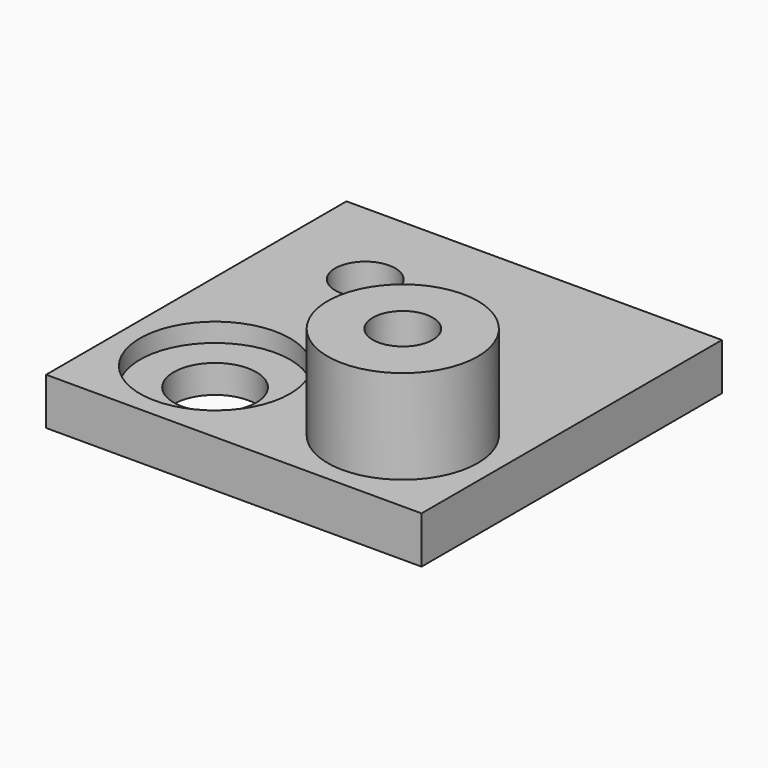
from build123d import *

# Parameters (mm, degrees)
F0_W     = 12.7
F0_H     = 12.7
F1_DEPTH = 1.5875
F2_R     = 1.016
F2_R_2   = 1.397
F3_DEPTH = 6.35
F2_R_3   = 2.54
F4_DEPTH = 3.175
F5_DEPTH = 0.635


with BuildPart() as f1:
    # F0 (on Top) → F1 (new body)
    with BuildSketch(Plane.XY):
        Rectangle(F0_W, F0_H)
    extrude(amount=F1_DEPTH)

    # F2 (on face) → F3 (cut)
    with BuildSketch(Plane.XY.offset(1.5875)):
        with Locations((-3.175, 3.175)):
            Circle(F2_R)
        with Locations((3.175, -3.175)):
            Circle(F2_R)
        with Locations((-3.175, -3.175)):
            Circle(F2_R_2)
    extrude(amount=-F3_DEPTH, mode=Mode.SUBTRACT)

    # F2 (on face) → F4 (join)
    with BuildSketch(Plane.XY.offset(1.5875)):
        with Locations((3.175, -3.175)):
            Circle(F2_R_3)
        with Locations((3.175, -3.175)):
            Circle(F2_R, mode=Mode.SUBTRACT)
    extrude(amount=F4_DEPTH)

    # F2 (on face) → F5 (cut)
    with BuildSketch(Plane.XY.offset(1.5875)):
        with Locations((-3.175, -3.175)):
            Circle(F2_R_3)
        with Locations((-3.175, -3.175)):
            Circle(F2_R_2, mode=Mode.SUBTRACT)
    extrude(amount=-F5_DEPTH, mode=Mode.SUBTRACT)


solid = f1.part
